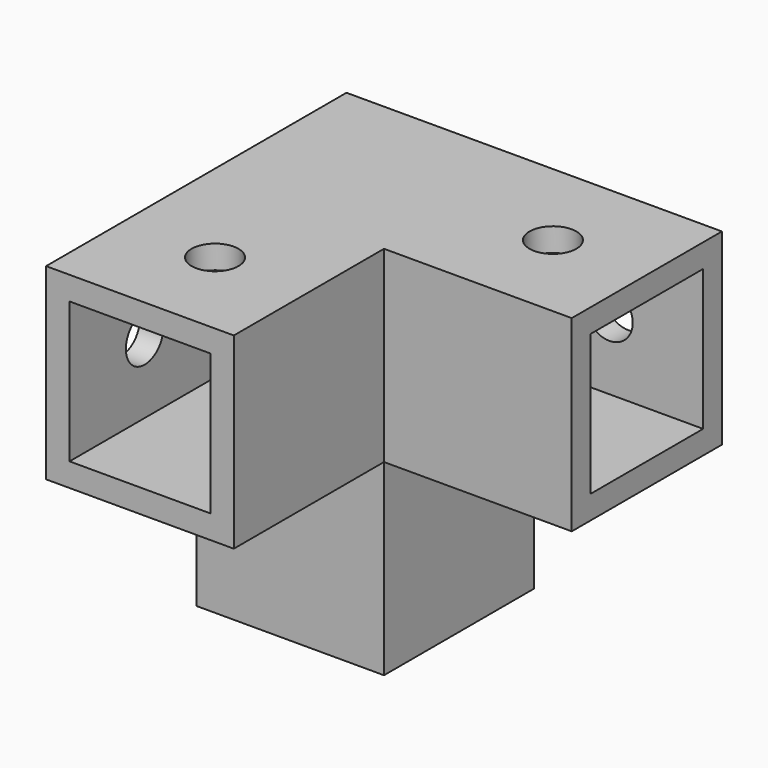
from build123d import *

# Parameters (mm, degrees)
F1_DEPTH  = 20
F2_W      = 20
F2_H      = 20
F3_DEPTH  = 20
F4_T      = -2.5
F5_R      = 2.5
F6_DEPTH  = 2.5
F7_R      = 2.5
F8_DEPTH  = 2.5
F9_R      = 2.5
F10_DEPTH = 2.5


with BuildPart() as f1:
    # F0 (on Front) → F1 (new body)
    with BuildSketch(Plane.XZ):
        Polygon((40, 0), (0, 0), (0, -40), (20, -40), (20, -20), (40, -20), align=None)
    extrude(amount=F1_DEPTH)

    # F2 (on face) → F3 (join)
    with BuildSketch(Plane.XZ.offset(20)):
        with Locations((10, -10)):
            Rectangle(F2_W, F2_H)
    extrude(amount=F3_DEPTH)

    # F4
    f4_openings = [f1.faces().sort_by_distance(p)[0] for p in [
        (10, -40, -10),
        (40, -10, -10),
        (10, -10, -40),
    ]]
    offset(amount=F4_T, openings=f4_openings, kind=Kind.INTERSECTION)

    # F5 (on face) → F6 (cut, through all)
    with BuildSketch(Plane(origin=(0, 0, 0), x_dir=(0, -1, 0), z_dir=(-1, 0, 0))):
        with Locations((30, -10)):
            Circle(F5_R)
        with Locations((10, -30)):
            Circle(F5_R)
    extrude(amount=-F6_DEPTH, mode=Mode.SUBTRACT)

    # F7 (on face) → F8 (cut, through all)
    with BuildSketch(Plane.XY):
        with Locations((10, -30)):
            Circle(F7_R)
        with Locations((30, -10)):
            Circle(F7_R)
    extrude(amount=-F8_DEPTH, mode=Mode.SUBTRACT)

    # F9 (on face) → F10 (cut, through all)
    with BuildSketch(Plane(origin=(0, 0, 0), x_dir=(-1, 0, 0), z_dir=(0, 1, 0))):
        with Locations((-30, -10)):
            Circle(F9_R)
        with Locations((-10, -30)):
            Circle(F9_R)
    extrude(amount=-F10_DEPTH, mode=Mode.SUBTRACT)


solid = f1.part
